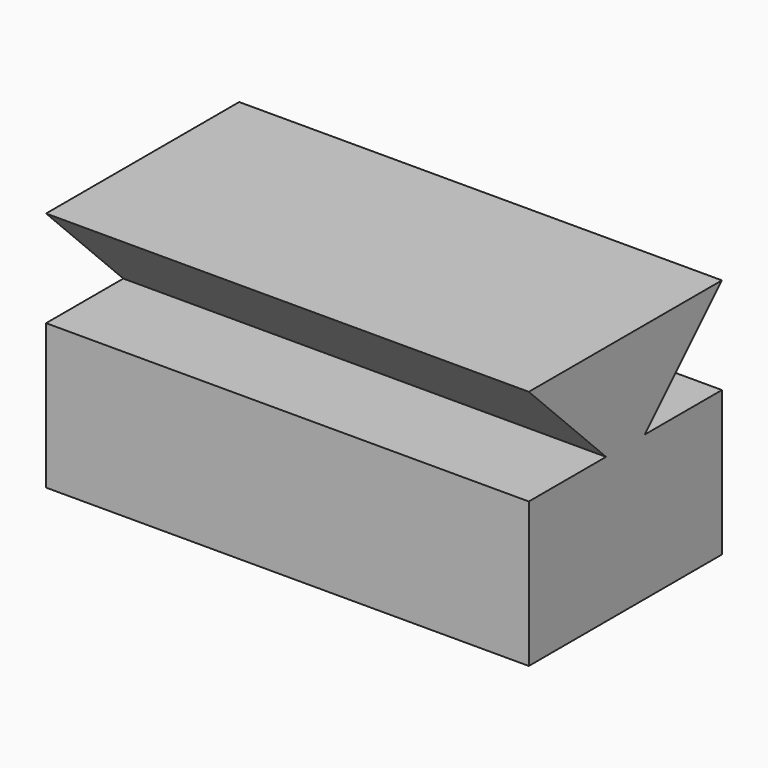
from build123d import *

# Parameters (mm, degrees)
F0_W     = 63.5
F0_H     = 63.5
F1_DEPTH = 127
F3_DEPTH = 127.001


with BuildPart() as f1:
    # F0 (on Right) → F1 (new body)
    with BuildSketch(Plane.YZ):
        with Locations((1.989381, -1.490696)):
            Rectangle(F0_W, F0_H)
    extrude(amount=F1_DEPTH)

    # F2 (on face) → F3 (cut, through all)
    with BuildSketch(Plane.YZ.offset(127)):
        Polygon((-29.760619, 30.259304), (-29.760619, 4.859304), (-4.360619, 4.859304), align=None)
        Polygon((33.739381, 4.859304), (33.739381, 30.259304), (8.339381, 4.859304), align=None)
    extrude(amount=-F3_DEPTH, mode=Mode.SUBTRACT)


solid = f1.part
